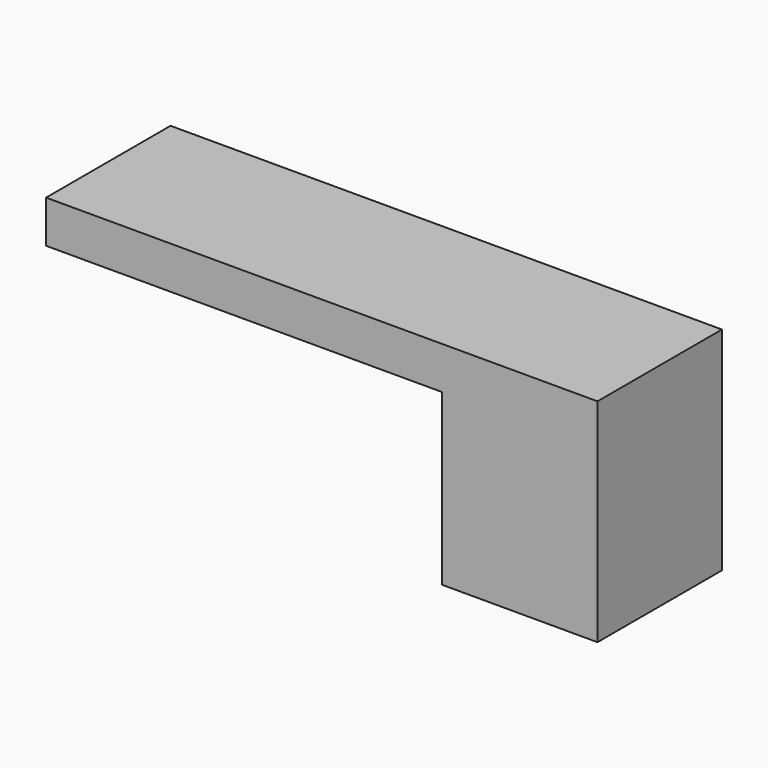
from build123d import *

# Parameters (mm, degrees)
F0_W     = 1422.4
F0_H     = 558.8
F0_W_2   = 558.8
F1_DEPTH = 762
F2_W     = 1422.4
F2_H     = 609.6
F3_DEPTH = 558.8


with BuildPart() as f1:
    # F0 (on Top) → F1 (new body)
    with BuildSketch(Plane.XY):
        Rectangle(F0_W, F0_H)
        with Locations((990.6, 0)):
            Rectangle(F0_W_2, F0_H)
    extrude(amount=F1_DEPTH)

    # F2 (on face) → F3 (cut)
    with BuildSketch(Plane.XZ.offset(279.4)):
        with Locations((0, 304.8)):
            Rectangle(F2_W, F2_H)
    extrude(amount=-F3_DEPTH, mode=Mode.SUBTRACT)


solid = f1.part
